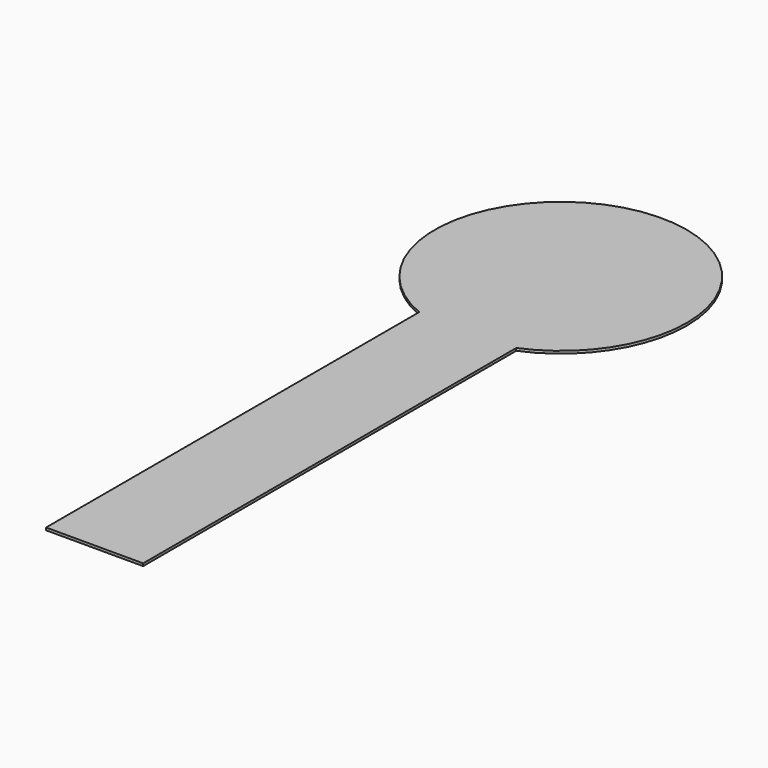
from build123d import *

# Parameters (mm, degrees)
F1_DEPTH = 0.2


with BuildPart() as f1:
    # F0 (on Top) → F1 (new body)
    with BuildSketch(Plane.XY):
        with BuildLine():
            ThreePointArc((3.85, -9.229166), (8.321658, -5.545268), (10, 0))
            ThreePointArc((10, 0), (-5.545268, 8.321658), (-3.85, -9.229166))
            Line((-3.85, -9.229166), (3.85, -9.229166))
        make_face()
        with BuildLine():
            ThreePointArc((3.85, -9.229166), (0, -10), (-3.85, -9.229166))
            Line((-3.85, -9.229166), (-3.85, -46.229166))
            Line((-3.85, -46.229166), (3.85, -46.229166))
            Line((3.85, -46.229166), (3.85, -9.229166))
        make_face()
        with BuildLine():
            Line((3.85, -9.229166), (-3.85, -9.229166))
            ThreePointArc((-3.85, -9.229166), (0, -10), (3.85, -9.229166))
        make_face()
    extrude(amount=F1_DEPTH)


solid = f1.part
